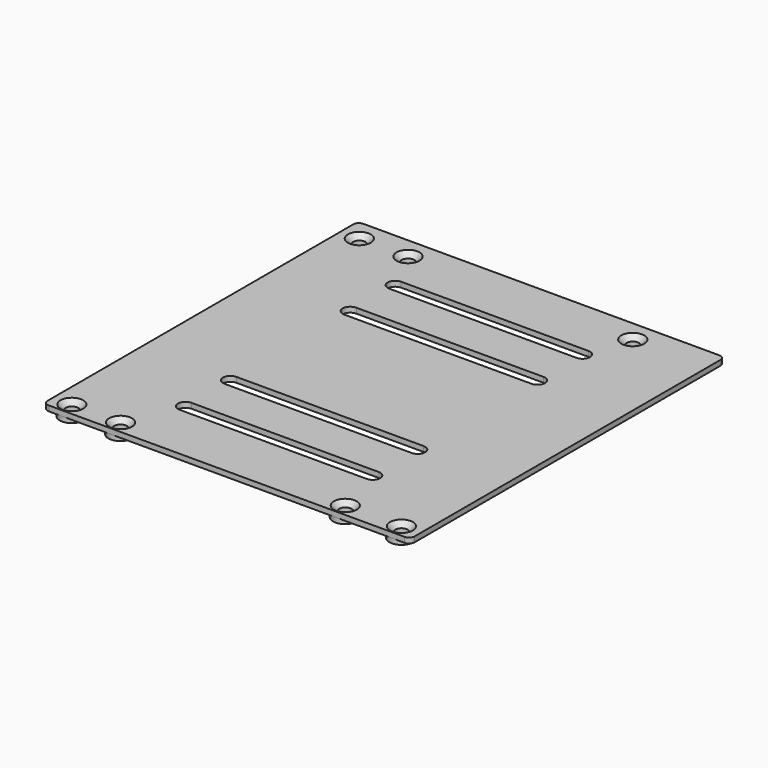
from build123d import *

# Parameters (mm, degrees)
PAD009_DEPTH     = 1.4
SKETCH015_R      = 3.25
PAD010_DEPTH     = 2.7
HOLE_D           = 3.4
HOLE_DEPTH       = 25
HOLE_CSINK_D     = 6.1
HOLE_CSINK_ANGLE = 90
POCKET003_DEPTH  = 1.4


with BuildPart() as part:
    # Sketch014 → Pad009 (new body)
    with BuildSketch(Plane.XY):
        with BuildLine():
            Line((-49, 51), (-49, -51))
            ThreePointArc((-49, -51), (-48.56066, -52.06066), (-47.5, -52.5))
            Line((-47.5, -52.5), (47.5, -52.5))
            ThreePointArc((47.5, -52.5), (48.56066, -52.06066), (49, -51))
            Line((49, -51), (49, 51))
            ThreePointArc((49, 51), (48.56066, 52.06066), (47.5, 52.5))
            Line((47.5, 52.5), (-47.5, 52.5))
            ThreePointArc((-47.5, 52.5), (-48.56066, 52.06066), (-49, 51))
        make_face()
    extrude(amount=-PAD009_DEPTH)

    # Sketch015 → Pad010 (join)
    with BuildSketch(Plane.XY):
        with Locations((-44, 46.766667)):
            Circle(SKETCH015_R)
        with Locations((-31, 46.766667)):
            Circle(SKETCH015_R)
        with Locations((29, 46.766667)):
            Circle(SKETCH015_R)
        with Locations((-44, -49.166667)):
            Circle(SKETCH015_R)
        with Locations((-31, -49.166667)):
            Circle(SKETCH015_R)
        with Locations((29, -49.166667)):
            Circle(SKETCH015_R)
        with Locations((44, -49.166667)):
            Circle(SKETCH015_R)
    extrude(amount=-PAD010_DEPTH)

    # Hole
    with Locations(Plane.XY):
        with Locations((-44, 46.766667), (-31, 46.766667), (29, 46.766667), (-44, -49.166667), (-31, -49.166667), (29, -49.166667), (44, -49.166667)):
            CounterSinkHole(HOLE_D / 2, HOLE_CSINK_D / 2, depth=HOLE_DEPTH, counter_sink_angle=HOLE_CSINK_ANGLE)

    # Sketch016 (on Face4 of Hole) → Pocket003 (cut)
    with BuildSketch(Plane.XY):
        with BuildLine():
            ThreePointArc((-25, 37), (-27, 35), (-25, 33))
            Line((-25, 33), (25, 33))
            ThreePointArc((25, 33), (27, 35), (25, 37))
            Line((-25, 37), (25, 37))
        make_face()
        with BuildLine():
            ThreePointArc((-25, -33), (-27, -35), (-25, -37))
            Line((-25, -37), (25, -37))
            ThreePointArc((25, -37), (27, -35), (25, -33))
            Line((-25, -33), (25, -33))
        make_face()
        with BuildLine():
            ThreePointArc((-25, 22), (-27, 20), (-25, 18))
            Line((-25, 18), (25, 18))
            ThreePointArc((25, 18), (27, 20), (25, 22))
            Line((-25, 22), (25, 22))
        make_face()
        with BuildLine():
            ThreePointArc((-25, -18), (-27, -20), (-25, -22))
            Line((-25, -22), (25, -22))
            ThreePointArc((25, -22), (27, -20), (25, -18))
            Line((-25, -18), (25, -18))
        make_face()
    extrude(amount=-POCKET003_DEPTH, mode=Mode.SUBTRACT)


with BuildPart() as part_1:
    # Body003 placement: moved
    add(part.part.moved(Location((0, 0, 63.5))))


solid = part_1.part
